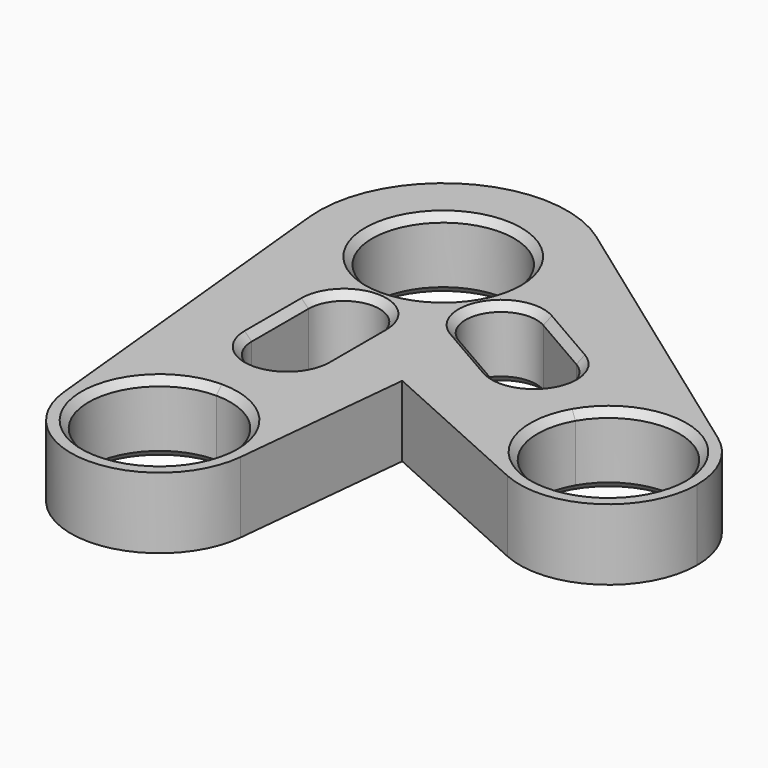
from build123d import *

# Parameters (mm, degrees)
F1_DEPTH = 25.4
F3_DEPTH = 25.4
F4_SIZE  = 2.54


with BuildPart() as f1:
    # F0 (on Top) → F1 (new body)
    with BuildSketch(Plane.XY):
        with BuildLine():
            ThreePointArc((0, -95.25), (-23.5464301965, -105.7014525143), (-31.5908511281, -130.175))
            ThreePointArc((-31.5908511281, -130.175), (0, -158.75), (31.5908511281, -130.175))
            ThreePointArc((31.5908511281, -130.175), (31.7101878213, -128.5894931081), (31.75, -127))
            ThreePointArc((31.75, -127), (22.4506403027, -104.5493596973), (0, -95.25))
        make_face()
        with BuildLine():
            ThreePointArc((25.4, -127), (-17.9605122421, -144.9605122421), (0, -101.6))
            ThreePointArc((0, -101.6), (17.9605122421, -109.0394877579), (25.4, -127))
        make_face(mode=Mode.SUBTRACT)
        with BuildLine():
            Line((31.5908511281, -130.175), (38.0502351456, -65.9049405121))
            Line((38.0502351456, -65.9049405121), (0, -48.7559073592))
            Line((0, -48.7559073592), (0, -95.25))
            ThreePointArc((0, -95.25), (22.4506403027, -104.5493596973), (31.75, -127))
            ThreePointArc((31.75, -127), (31.7101878213, -128.5894931081), (31.5908511281, -130.175))
        make_face()
        with BuildLine():
            ThreePointArc((-18.2641128699, -40.5243714458), (-36.0793714458, -25.9630787095), (-44.2271915794, -4.445))
            Line((-44.2271915794, -4.445), (-31.5908511281, -130.175))
            ThreePointArc((-31.5908511281, -130.175), (-23.5464301965, -105.7014525143), (0, -95.25))
            Line((0, -95.25), (0, -48.7559073592))
            Line((0, -48.7559073592), (-18.2641128699, -40.5243714458))
        make_face()
        with BuildLine():
            Line((42.2238543576, -24.3779536796), (38.4948291982, -22.225))
            ThreePointArc((38.4948291982, -22.225), (22.225, -38.4948291982), (0, -44.45))
            Line((0, -44.45), (0, -48.7559073592))
            Line((0, -48.7559073592), (38.0502351456, -65.9049405121))
            Line((38.0502351456, -65.9049405121), (42.2238543576, -24.3779536796))
        make_face()
        with BuildLine():
            ThreePointArc((0, -44.45), (-9.3406153233, -43.4575126461), (-18.2641128699, -40.5243714458))
            Line((-18.2641128699, -40.5243714458), (0, -48.7559073592))
            Line((0, -48.7559073592), (0, -44.45))
        make_face()
        with BuildLine():
            ThreePointArc((0, -44.45), (22.225, -38.4948291982), (38.4948291982, -22.225))
            Line((38.4948291982, -22.225), (21.9970452561, -12.7))
            ThreePointArc((21.9970452561, -12.7), (12.7, -21.9970452561), (0, -25.4))
            Line((0, -25.4), (0, -44.45))
        make_face()
        with BuildLine():
            ThreePointArc((44.2271915794, -4.445), (44.3942629498, -2.2252903514), (44.45, 0))
            ThreePointArc((44.45, 0), (39.5592046725, 20.2699734998), (25.9630787095, 36.0793714458))
            ThreePointArc((25.9630787095, 36.0793714458), (-22.225, 38.4948291982), (-44.2271915794, -4.445))
            ThreePointArc((-44.2271915794, -4.445), (-36.0793714458, -25.9630787095), (-18.2641128699, -40.5243714458))
            ThreePointArc((-18.2641128699, -40.5243714458), (-9.3406153233, -43.4575126461), (0, -44.45))
            Line((0, -44.45), (0, -25.4))
            ThreePointArc((0, -25.4), (-17.9605122421, 17.9605122421), (25.4, 0))
            ThreePointArc((25.4, 0), (24.5345159877, -6.5740037456), (21.9970452561, -12.7))
            Line((21.9970452561, -12.7), (38.4948291982, -22.225))
            ThreePointArc((38.4948291982, -22.225), (42.3056175984, -13.6395461661), (44.2271915794, -4.445))
        make_face()
        with BuildLine():
            Line((42.2238543576, -24.3779536796), (44.2271915794, -4.445))
            ThreePointArc((44.2271915794, -4.445), (42.3056175984, -13.6395461661), (38.4948291982, -22.225))
            Line((38.4948291982, -22.225), (42.2238543576, -24.3779536796))
        make_face()
        with BuildLine():
            Line((82.4889197105, -47.625), (42.2238543576, -24.3779536796))
            Line((42.2238543576, -24.3779536796), (38.0502351456, -65.9049405121))
            Line((38.0502351456, -65.9049405121), (96.9394313736, -92.4459796041))
            ThreePointArc((96.9394313736, -92.4459796041), (79.766927996, -73.2425329758), (82.4889197105, -47.625))
        make_face()
        with BuildLine():
            ThreePointArc((25.9630787095, 36.0793714458), (39.5592046725, 20.2699734998), (44.45, 0))
            ThreePointArc((44.45, 0), (44.3942629498, -2.2252903514), (44.2271915794, -4.445))
            Line((44.2271915794, -4.445), (42.2238543576, -24.3779536796))
            Line((42.2238543576, -24.3779536796), (82.4889197105, -47.625))
            ThreePointArc((82.4889197105, -47.625), (103.3133581926, -32.4589195385), (128.5302825017, -37.7290203959))
            Line((128.5302825017, -37.7290203959), (25.9630787095, 36.0793714458))
        make_face()
        with BuildLine():
            ThreePointArc((141.7352262806, -63.5), (138.2418010467, -49.0214475002), (128.5302825017, -37.7290203959))
            ThreePointArc((128.5302825017, -37.7290203959), (103.3133581926, -32.4589195385), (82.4889197105, -47.625))
            ThreePointArc((82.4889197105, -47.625), (79.766927996, -73.2425329758), (96.9394313736, -92.4459796041))
            ThreePointArc((96.9394313736, -92.4459796041), (127.216861602, -90.1670816579), (141.7352262806, -63.5))
        make_face()
        with BuildLine():
            ThreePointArc((135.3852262806, -63.5), (103.411222535, -88.0345159877), (87.9881810245, -50.8))
            ThreePointArc((87.9881810245, -50.8), (116.5592300262, -38.9654840123), (135.3852262806, -63.5))
        make_face(mode=Mode.SUBTRACT)
    extrude(amount=F1_DEPTH)

    # F2 (on face) → F3 (cut)
    with BuildSketch(Plane(origin=(0, 0, 0), x_dir=(1, 0, 0), z_dir=(0, 0, -1))):
        with BuildLine():
            ThreePointArc((32.1448291982, 33.2235226281), (27.4963065702, 15.875), (44.8448291982, 11.2264773719))
            Line((44.8448291982, 11.2264773719), (66.8418744543, 23.9264773719))
            ThreePointArc((66.8418744543, 23.9264773719), (71.4903970824, 41.275), (54.1418744543, 45.9235226281))
            Line((54.1418744543, 45.9235226281), (32.1448291982, 33.2235226281))
        make_face()
        with BuildLine():
            ThreePointArc((-12.7, 44.45), (0, 31.75), (12.7, 44.45))
            Line((12.7, 44.45), (12.7, 69.85))
            ThreePointArc((12.7, 69.85), (0, 82.55), (-12.7, 69.85))
            Line((-12.7, 69.85), (-12.7, 44.45))
        make_face()
    extrude(amount=-F3_DEPTH, mode=Mode.SUBTRACT)

    # F4
    f4_edges = [f1.edges().sort_by_distance(p)[0] for p in [
        (43.143352, -39.573523, 25.4),
        (131.982272, -76.2, 25.4),
        (-12.7, -57.15, 25.4),
        (-25.4, -127, 25.4),
        (0, 25.4, 25.4),
        (27.496307, -15.875, 0),
        (131.982272, -76.2, 0),
        (0, 25.4, 0),
        (12.7, -57.15, 0),
        (-25.4, -127, 0),
    ]]
    chamfer(f4_edges, length=F4_SIZE)


solid = f1.part
